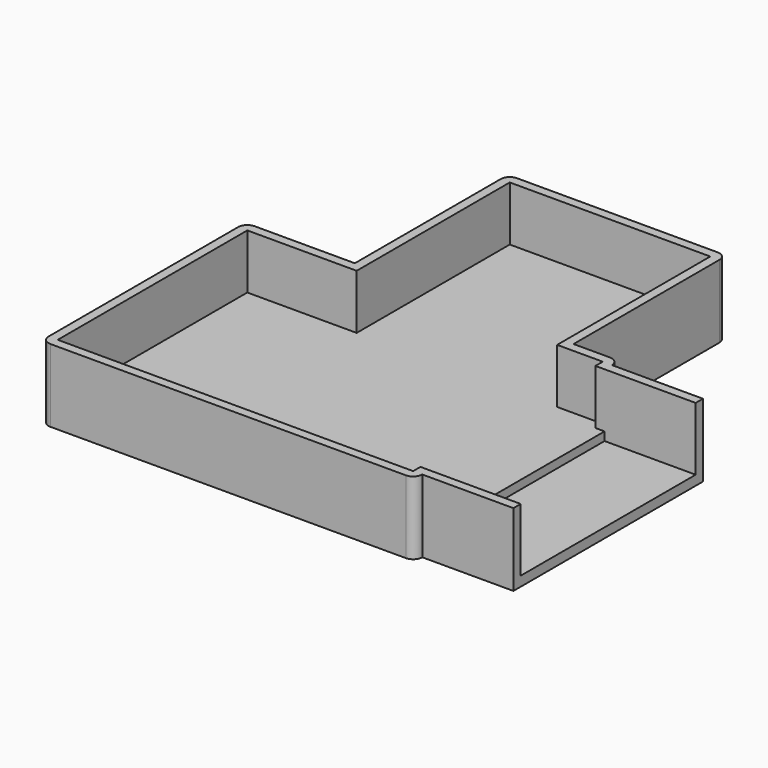
from build123d import *

# Parameters (mm, degrees)
F1_DEPTH = 2
F3_DEPTH = 6
F4_W     = 24
F4_H     = 6
F5_DEPTH = 1
F6_R     = 1
F8_DEPTH = 10


with BuildPart() as f1:
    # F0 (on Top) → F1 (new body)
    with BuildSketch(Plane.XY):
        Polygon((-24, 0), (-24, -28), (17, -28), (17, 0), (12, 0), (12, 21), (-12, 21), (-12, 0), align=None)
    extrude(amount=F1_DEPTH)

    # F2 (on face) → F3 (join)
    with BuildSketch(Plane.XY.offset(2)):
        Polygon((-24, 0), (-24, -28), (17, -28), (17, 0), (12, 0), (12, 21), (-12, 21), (-12, 0), align=None)
        Polygon((-23, -1), (-11, -1), (-11, 20), (11, 20), (11, -1), (16, -1), (16, -27), (-23, -27), align=None, mode=Mode.SUBTRACT)
    extrude(amount=F3_DEPTH)

    # F4 (on face) → F5 (cut, through all)
    with BuildSketch(Plane.YZ.offset(17)):
        with Locations((-14, 5)):
            Rectangle(F4_W, F4_H)
    extrude(amount=-F5_DEPTH, mode=Mode.SUBTRACT)

    # F6
    f6_edges = [f1.edges().sort_by_distance(p)[0] for p in [
        (-24, 0, 4),
        (-12, 21, 4),
        (12, 21, 4),
        (17, 0, 4),
        (17, -28, 4),
        (-24, -28, 4),
    ]]
    fillet(f6_edges, radius=F6_R)

    # F7 (on face) → F8 (join)
    with BuildSketch(Plane.YZ.offset(17)):
        Polygon((-26, 2), (-26, 8), (-27, 8), (-27, 0), (-1, 0), (-1, 8), (-2, 8), (-2, 2), (-2, 1.066827), (-26, 1.066827), align=None)
    extrude(amount=F8_DEPTH)


solid = f1.part
